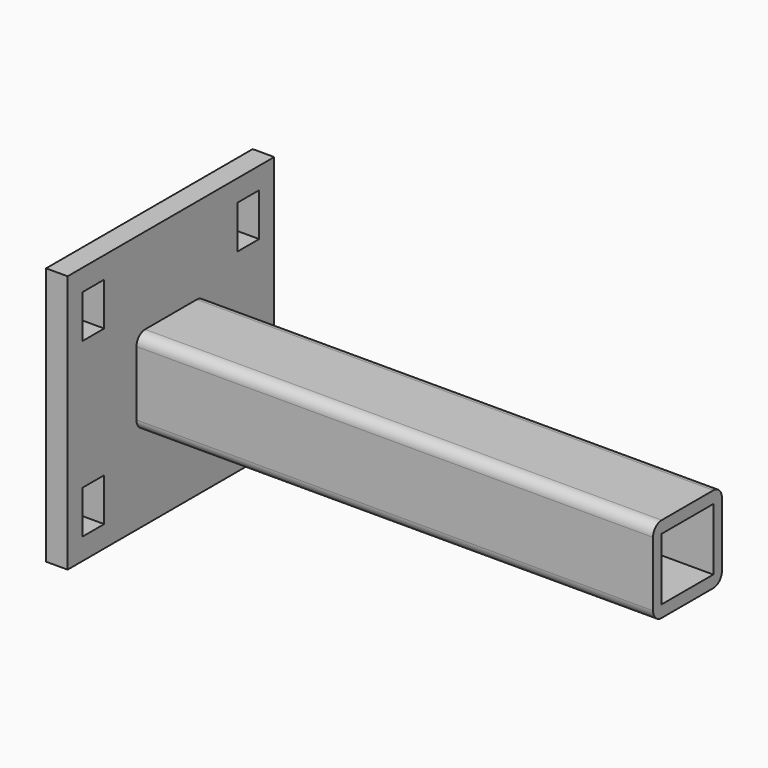
from build123d import *

# Parameters (mm, degrees)
F0_W     = 152.4
F0_H     = 152.4
F1_DEPTH = 12.7
F2_W     = 50.8
F2_H     = 50.8
F3_DEPTH = 304.8
F4_W     = 38.1
F4_H     = 36.661644
F5_DEPTH = 304.8
F6_R     = 6.35
F7_W     = 15.875
F7_H     = 25.4
F8_DEPTH = 12.701


with BuildPart() as f1:
    # F0 (on Right) → F1 (new body)
    with BuildSketch(Plane.YZ):
        Rectangle(F0_W, F0_H)
    extrude(amount=-F1_DEPTH)

    # F2 (on face) → F3 (join)
    with BuildSketch(Plane.YZ):
        Rectangle(F2_W, F2_H)
    extrude(amount=F3_DEPTH)

    # F4 (on face) → F5 (cut, through all)
    with BuildSketch(Plane.YZ.offset(304.8)):
        Rectangle(F4_W, F4_H)
    extrude(amount=-F5_DEPTH, mode=Mode.SUBTRACT)

    # F6
    f6_edges = [f1.edges().sort_by_distance(p)[0] for p in [
        (152.4, -25.4, 25.4),
        (152.4, 25.4, 25.4),
        (152.4, -25.4, -25.4),
        (152.4, 25.4, -25.4),
    ]]
    fillet(f6_edges, radius=F6_R)

    # F7 (on face) → F8 (cut, through all)
    with BuildSketch(Plane.YZ):
        with Locations((-57.15, 50.8)):
            Rectangle(F7_W, F7_H)
        with Locations((57.15, 50.8)):
            Rectangle(F7_W, F7_H)
        with Locations((57.15, -50.8)):
            Rectangle(F7_W, F7_H)
        with Locations((-57.15, -50.8)):
            Rectangle(F7_W, F7_H)
    extrude(amount=-F8_DEPTH, mode=Mode.SUBTRACT)


solid = f1.part
